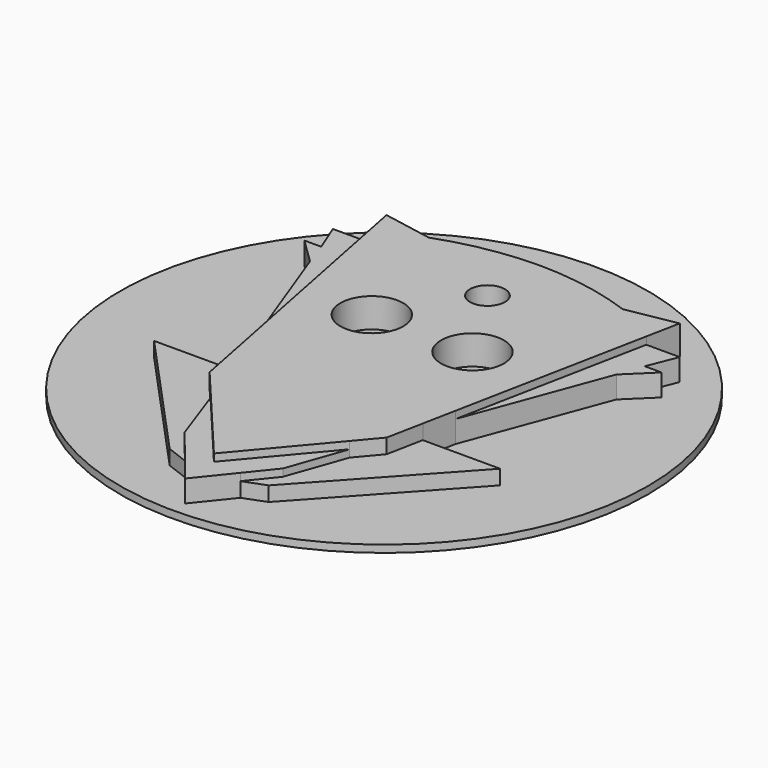
from build123d import *

# Parameters (mm, degrees)
F0_R     = 4.2876068596
F0_R_2   = 2.3838147506
F1_DEPTH = 4
F2_DEPTH = 2
F3_DEPTH = 3
F0_R_3   = 36
F4_DEPTH = 1


with BuildPart() as f1:
    # F0 (on Top) → F1 (new body)
    with BuildSketch(Plane.XY):
        with BuildLine():
            Line((-13.0515498851, -5.7173473364), (-12.0754661039, -10.6526017189))
            Line((-12.0754661039, -10.6526017189), (-9.4899676344, -13.7262029863))
            Line((-9.4899676344, -13.7262029863), (0, -25.0077322125))
            Line((0, -25.0077322125), (9.4899676344, -13.7262029863))
            Line((9.4899676344, -13.7262029863), (12.0754661039, -10.6526017189))
            Line((12.0754661039, -10.6526017189), (13.0515498851, -5.7173473364))
            Line((13.0515498851, -5.7173473364), (13.9420140412, -1.2150011097))
            Line((13.9420140412, -1.2150011097), (19.0945449157, 24.8371176422))
            Line((19.0945449157, 24.8371176422), (19.9989844114, 29.4101256877))
            Line((19.9989844114, 29.4101256877), (13.2328327745, 28.1637310982))
            ThreePointArc((13.2328327745, 28.1637310982), (6.7187616823, 29.9189517629), (0, 30.5290035903))
            ThreePointArc((0, 30.5290035903), (-6.7187616823, 29.9189517629), (-13.2328327745, 28.1637310982))
            Line((-13.2328327745, 28.1637310982), (-19.9989844114, 29.4101256877))
            Line((-19.9989844114, 29.4101256877), (-19.0945449157, 24.8371176422))
            Line((-19.0945449157, 24.8371176422), (-13.9420140412, -1.2150011097))
            Line((-13.9420140412, -1.2150011097), (-13.0515498851, -5.7173473364))
        make_face()
        with Locations((-6.8642999977, 10.4875685647)):
            Circle(F0_R, mode=Mode.SUBTRACT)
        with Locations((6.8642999977, 10.4875685647)):
            Circle(F0_R, mode=Mode.SUBTRACT)
        with Locations((0, 21.6226968914)):
            Circle(F0_R_2, mode=Mode.SUBTRACT)
    extrude(amount=F1_DEPTH)

    # F0 (on Top) → F2 (join)
    with BuildSketch(Plane.XY):
        Polygon((-9.4899676344, -13.7262029863), (-12.0754661039, -10.6526017189), (-13.0515498851, -5.7173473364), (-23.5967580229, -5.7173473364), (-6.7524560727, -24.1164751351), (-3.7902638408, -25.2393729972), (-6.6908341832, -21.6307397932), align=None)
        Polygon((12.0754661039, -10.6526017189), (9.4899676344, -13.7262029863), (6.6908341832, -21.6307397932), (3.7902638408, -25.2393729972), (6.7524560727, -24.1164751351), (23.5967580229, -5.7173473364), (13.0515498851, -5.7173473364), align=None)
    extrude(amount=F2_DEPTH)

    # F0 (on Top) → F3 (join)
    with BuildSketch(Plane.XY):
        Polygon((0, -25.0077322125), (-9.4899676344, -13.7262029863), (-6.6908341832, -21.6307397932), (-3.7902638408, -25.2393729972), (0, -29.9548842013), (3.7902638408, -25.2393729972), (6.6908341832, -21.6307397932), (9.4899676344, -13.7262029863), align=None)
        Polygon((-20.8892654628, 17.4803361297), (-13.9420140412, -1.2150011097), (-19.0945449157, 24.8371176422), (-23.6523598433, 24.8371176422), (-22.0642630011, 20.8634119481), (-24.3613701314, 20.8634119481), align=None)
        Polygon((19.0945449157, 24.8371176422), (13.9420140412, -1.2150011097), (20.8892654628, 17.4803361297), (24.3613701314, 20.8634119481), (22.0642630011, 20.8634119481), (23.6523598433, 24.8371176422), align=None)
    extrude(amount=F3_DEPTH)

    # F0 (on Top) → F4 (join)
    with BuildSketch(Plane.XY):
        with Locations((0, 4)):
            Circle(F0_R_3)
        with BuildLine():
            Line((-23.5967580229, -5.7173473364), (-13.0515498851, -5.7173473364))
            Line((-13.0515498851, -5.7173473364), (-13.9420140412, -1.2150011097))
            Line((-13.9420140412, -1.2150011097), (-20.8892654628, 17.4803361297))
            Line((-20.8892654628, 17.4803361297), (-24.3613701314, 20.8634119481))
            Line((-24.3613701314, 20.8634119481), (-22.0642630011, 20.8634119481))
            Line((-22.0642630011, 20.8634119481), (-23.6523598433, 24.8371176422))
            Line((-23.6523598433, 24.8371176422), (-19.0945449157, 24.8371176422))
            Line((-19.0945449157, 24.8371176422), (-19.9989844114, 29.4101256877))
            Line((-19.9989844114, 29.4101256877), (-13.2328327745, 28.1637310982))
            ThreePointArc((-13.2328327745, 28.1637310982), (-6.7187616823, 29.9189517629), (0, 30.5290035903))
            ThreePointArc((0, 30.5290035903), (6.7187616823, 29.9189517629), (13.2328327745, 28.1637310982))
            Line((13.2328327745, 28.1637310982), (19.9989844114, 29.4101256877))
            Line((19.9989844114, 29.4101256877), (19.0945449157, 24.8371176422))
            Line((19.0945449157, 24.8371176422), (23.6523598433, 24.8371176422))
            Line((23.6523598433, 24.8371176422), (22.0642630011, 20.8634119481))
            Line((22.0642630011, 20.8634119481), (24.3613701314, 20.8634119481))
            Line((24.3613701314, 20.8634119481), (20.8892654628, 17.4803361297))
            Line((20.8892654628, 17.4803361297), (13.9420140412, -1.2150011097))
            Line((13.9420140412, -1.2150011097), (13.0515498851, -5.7173473364))
            Line((13.0515498851, -5.7173473364), (23.5967580229, -5.7173473364))
            Line((23.5967580229, -5.7173473364), (6.7524560727, -24.1164751351))
            Line((6.7524560727, -24.1164751351), (3.7902638408, -25.2393729972))
            Line((3.7902638408, -25.2393729972), (0, -29.9548842013))
            Line((0, -29.9548842013), (-3.7902638408, -25.2393729972))
            Line((-3.7902638408, -25.2393729972), (-6.7524560727, -24.1164751351))
            Line((-6.7524560727, -24.1164751351), (-23.5967580229, -5.7173473364))
        make_face(mode=Mode.SUBTRACT)
        with Locations((0, 4)):
            Circle(F0_R_3)
        with BuildLine():
            Line((-23.5967580229, -5.7173473364), (-13.0515498851, -5.7173473364))
            Line((-13.0515498851, -5.7173473364), (-13.9420140412, -1.2150011097))
            Line((-13.9420140412, -1.2150011097), (-20.8892654628, 17.4803361297))
            Line((-20.8892654628, 17.4803361297), (-24.3613701314, 20.8634119481))
            Line((-24.3613701314, 20.8634119481), (-22.0642630011, 20.8634119481))
            Line((-22.0642630011, 20.8634119481), (-23.6523598433, 24.8371176422))
            Line((-23.6523598433, 24.8371176422), (-19.0945449157, 24.8371176422))
            Line((-19.0945449157, 24.8371176422), (-19.9989844114, 29.4101256877))
            Line((-19.9989844114, 29.4101256877), (-13.2328327745, 28.1637310982))
            ThreePointArc((-13.2328327745, 28.1637310982), (-6.7187616823, 29.9189517629), (0, 30.5290035903))
            ThreePointArc((0, 30.5290035903), (6.7187616823, 29.9189517629), (13.2328327745, 28.1637310982))
            Line((13.2328327745, 28.1637310982), (19.9989844114, 29.4101256877))
            Line((19.9989844114, 29.4101256877), (19.0945449157, 24.8371176422))
            Line((19.0945449157, 24.8371176422), (23.6523598433, 24.8371176422))
            Line((23.6523598433, 24.8371176422), (22.0642630011, 20.8634119481))
            Line((22.0642630011, 20.8634119481), (24.3613701314, 20.8634119481))
            Line((24.3613701314, 20.8634119481), (20.8892654628, 17.4803361297))
            Line((20.8892654628, 17.4803361297), (13.9420140412, -1.2150011097))
            Line((13.9420140412, -1.2150011097), (13.0515498851, -5.7173473364))
            Line((13.0515498851, -5.7173473364), (23.5967580229, -5.7173473364))
            Line((23.5967580229, -5.7173473364), (6.7524560727, -24.1164751351))
            Line((6.7524560727, -24.1164751351), (3.7902638408, -25.2393729972))
            Line((3.7902638408, -25.2393729972), (0, -29.9548842013))
            Line((0, -29.9548842013), (-3.7902638408, -25.2393729972))
            Line((-3.7902638408, -25.2393729972), (-6.7524560727, -24.1164751351))
            Line((-6.7524560727, -24.1164751351), (-23.5967580229, -5.7173473364))
        make_face(mode=Mode.SUBTRACT)
        with Locations((0, 4)):
            Circle(F0_R_3)
        with BuildLine():
            Line((-23.5967580229, -5.7173473364), (-13.0515498851, -5.7173473364))
            Line((-13.0515498851, -5.7173473364), (-13.9420140412, -1.2150011097))
            Line((-13.9420140412, -1.2150011097), (-20.8892654628, 17.4803361297))
            Line((-20.8892654628, 17.4803361297), (-24.3613701314, 20.8634119481))
            Line((-24.3613701314, 20.8634119481), (-22.0642630011, 20.8634119481))
            Line((-22.0642630011, 20.8634119481), (-23.6523598433, 24.8371176422))
            Line((-23.6523598433, 24.8371176422), (-19.0945449157, 24.8371176422))
            Line((-19.0945449157, 24.8371176422), (-19.9989844114, 29.4101256877))
            Line((-19.9989844114, 29.4101256877), (-13.2328327745, 28.1637310982))
            ThreePointArc((-13.2328327745, 28.1637310982), (-6.7187616823, 29.9189517629), (0, 30.5290035903))
            ThreePointArc((0, 30.5290035903), (6.7187616823, 29.9189517629), (13.2328327745, 28.1637310982))
            Line((13.2328327745, 28.1637310982), (19.9989844114, 29.4101256877))
            Line((19.9989844114, 29.4101256877), (19.0945449157, 24.8371176422))
            Line((19.0945449157, 24.8371176422), (23.6523598433, 24.8371176422))
            Line((23.6523598433, 24.8371176422), (22.0642630011, 20.8634119481))
            Line((22.0642630011, 20.8634119481), (24.3613701314, 20.8634119481))
            Line((24.3613701314, 20.8634119481), (20.8892654628, 17.4803361297))
            Line((20.8892654628, 17.4803361297), (13.9420140412, -1.2150011097))
            Line((13.9420140412, -1.2150011097), (13.0515498851, -5.7173473364))
            Line((13.0515498851, -5.7173473364), (23.5967580229, -5.7173473364))
            Line((23.5967580229, -5.7173473364), (6.7524560727, -24.1164751351))
            Line((6.7524560727, -24.1164751351), (3.7902638408, -25.2393729972))
            Line((3.7902638408, -25.2393729972), (0, -29.9548842013))
            Line((0, -29.9548842013), (-3.7902638408, -25.2393729972))
            Line((-3.7902638408, -25.2393729972), (-6.7524560727, -24.1164751351))
            Line((-6.7524560727, -24.1164751351), (-23.5967580229, -5.7173473364))
        make_face(mode=Mode.SUBTRACT)
        with Locations((0, 4)):
            Circle(F0_R_3)
        with BuildLine():
            Line((-23.5967580229, -5.7173473364), (-13.0515498851, -5.7173473364))
            Line((-13.0515498851, -5.7173473364), (-13.9420140412, -1.2150011097))
            Line((-13.9420140412, -1.2150011097), (-20.8892654628, 17.4803361297))
            Line((-20.8892654628, 17.4803361297), (-24.3613701314, 20.8634119481))
            Line((-24.3613701314, 20.8634119481), (-22.0642630011, 20.8634119481))
            Line((-22.0642630011, 20.8634119481), (-23.6523598433, 24.8371176422))
            Line((-23.6523598433, 24.8371176422), (-19.0945449157, 24.8371176422))
            Line((-19.0945449157, 24.8371176422), (-19.9989844114, 29.4101256877))
            Line((-19.9989844114, 29.4101256877), (-13.2328327745, 28.1637310982))
            ThreePointArc((-13.2328327745, 28.1637310982), (-6.7187616823, 29.9189517629), (0, 30.5290035903))
            ThreePointArc((0, 30.5290035903), (6.7187616823, 29.9189517629), (13.2328327745, 28.1637310982))
            Line((13.2328327745, 28.1637310982), (19.9989844114, 29.4101256877))
            Line((19.9989844114, 29.4101256877), (19.0945449157, 24.8371176422))
            Line((19.0945449157, 24.8371176422), (23.6523598433, 24.8371176422))
            Line((23.6523598433, 24.8371176422), (22.0642630011, 20.8634119481))
            Line((22.0642630011, 20.8634119481), (24.3613701314, 20.8634119481))
            Line((24.3613701314, 20.8634119481), (20.8892654628, 17.4803361297))
            Line((20.8892654628, 17.4803361297), (13.9420140412, -1.2150011097))
            Line((13.9420140412, -1.2150011097), (13.0515498851, -5.7173473364))
            Line((13.0515498851, -5.7173473364), (23.5967580229, -5.7173473364))
            Line((23.5967580229, -5.7173473364), (6.7524560727, -24.1164751351))
            Line((6.7524560727, -24.1164751351), (3.7902638408, -25.2393729972))
            Line((3.7902638408, -25.2393729972), (0, -29.9548842013))
            Line((0, -29.9548842013), (-3.7902638408, -25.2393729972))
            Line((-3.7902638408, -25.2393729972), (-6.7524560727, -24.1164751351))
            Line((-6.7524560727, -24.1164751351), (-23.5967580229, -5.7173473364))
        make_face(mode=Mode.SUBTRACT)
        with BuildLine():
            Line((-13.0515498851, -5.7173473364), (-12.0754661039, -10.6526017189))
            Line((-12.0754661039, -10.6526017189), (-9.4899676344, -13.7262029863))
            Line((-9.4899676344, -13.7262029863), (0, -25.0077322125))
            Line((0, -25.0077322125), (9.4899676344, -13.7262029863))
            Line((9.4899676344, -13.7262029863), (12.0754661039, -10.6526017189))
            Line((12.0754661039, -10.6526017189), (13.0515498851, -5.7173473364))
            Line((13.0515498851, -5.7173473364), (13.9420140412, -1.2150011097))
            Line((13.9420140412, -1.2150011097), (19.0945449157, 24.8371176422))
            Line((19.0945449157, 24.8371176422), (19.9989844114, 29.4101256877))
            Line((19.9989844114, 29.4101256877), (13.2328327745, 28.1637310982))
            ThreePointArc((13.2328327745, 28.1637310982), (6.7187616823, 29.9189517629), (0, 30.5290035903))
            ThreePointArc((0, 30.5290035903), (-6.7187616823, 29.9189517629), (-13.2328327745, 28.1637310982))
            Line((-13.2328327745, 28.1637310982), (-19.9989844114, 29.4101256877))
            Line((-19.9989844114, 29.4101256877), (-19.0945449157, 24.8371176422))
            Line((-19.0945449157, 24.8371176422), (-13.9420140412, -1.2150011097))
            Line((-13.9420140412, -1.2150011097), (-13.0515498851, -5.7173473364))
        make_face()
        with Locations((-6.8642999977, 10.4875685647)):
            Circle(F0_R, mode=Mode.SUBTRACT)
        with Locations((6.8642999977, 10.4875685647)):
            Circle(F0_R, mode=Mode.SUBTRACT)
        with Locations((0, 21.6226968914)):
            Circle(F0_R_2, mode=Mode.SUBTRACT)
        Polygon((-9.4899676344, -13.7262029863), (-12.0754661039, -10.6526017189), (-13.0515498851, -5.7173473364), (-23.5967580229, -5.7173473364), (-6.7524560727, -24.1164751351), (-3.7902638408, -25.2393729972), (-6.6908341832, -21.6307397932), align=None)
        Polygon((12.0754661039, -10.6526017189), (9.4899676344, -13.7262029863), (6.6908341832, -21.6307397932), (3.7902638408, -25.2393729972), (6.7524560727, -24.1164751351), (23.5967580229, -5.7173473364), (13.0515498851, -5.7173473364), align=None)
        Polygon((0, -25.0077322125), (-9.4899676344, -13.7262029863), (-6.6908341832, -21.6307397932), (-3.7902638408, -25.2393729972), (0, -29.9548842013), (3.7902638408, -25.2393729972), (6.6908341832, -21.6307397932), (9.4899676344, -13.7262029863), align=None)
        Polygon((-20.8892654628, 17.4803361297), (-13.9420140412, -1.2150011097), (-19.0945449157, 24.8371176422), (-23.6523598433, 24.8371176422), (-22.0642630011, 20.8634119481), (-24.3613701314, 20.8634119481), align=None)
        Polygon((19.0945449157, 24.8371176422), (13.9420140412, -1.2150011097), (20.8892654628, 17.4803361297), (24.3613701314, 20.8634119481), (22.0642630011, 20.8634119481), (23.6523598433, 24.8371176422), align=None)
        with Locations((-6.8642999977, 10.4875685647)):
            Circle(F0_R)
        with Locations((6.8642999977, 10.4875685647)):
            Circle(F0_R)
        with Locations((0, 21.6226968914)):
            Circle(F0_R_2)
    extrude(amount=-F4_DEPTH)


solid = f1.part
